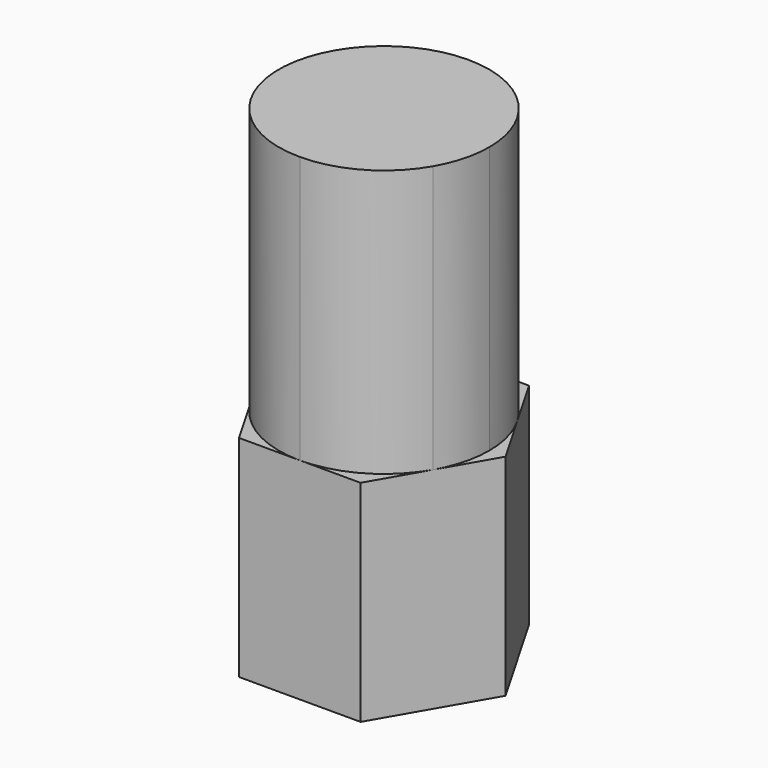
from build123d import *

# Parameters (mm, degrees)
F1_DEPTH = 5.0038
F3_DEPTH = 12.7


with BuildPart() as f1:
    # F0 (on Top) → F1 (new body, symmetric)
    with BuildSketch(Plane.XY):
        Polygon((2.888945, 5.0038), (-2.888945, 5.0038), (-5.777891, 0), (-2.888945, -5.0038), (2.888945, -5.0038), (5.777891, 0), align=None)
    extrude(amount=F1_DEPTH, both=True)

    # F2 (on face) → F3 (join)
    with BuildSketch(Plane.XY.offset(5.0038)):
        with BuildLine():
            ThreePointArc((4.333418, -2.5019), (4.8333, -1.295079), (5.0038, 0))
            ThreePointArc((5.0038, 0), (4.8333, 1.295079), (4.333418, 2.5019))
            ThreePointArc((4.333418, 2.5019), (2.5019, 4.333418), (0, 5.0038))
            ThreePointArc((0, 5.0038), (-2.5019, 4.333418), (-4.333418, 2.5019))
            ThreePointArc((-4.333418, 2.5019), (-5.0038, 0), (-4.333418, -2.5019))
            ThreePointArc((-4.333418, -2.5019), (-2.5019, -4.333418), (0, -5.0038))
            ThreePointArc((0, -5.0038), (2.5019, -4.333418), (4.333418, -2.5019))
        make_face()
    extrude(amount=F3_DEPTH)


solid = f1.part
